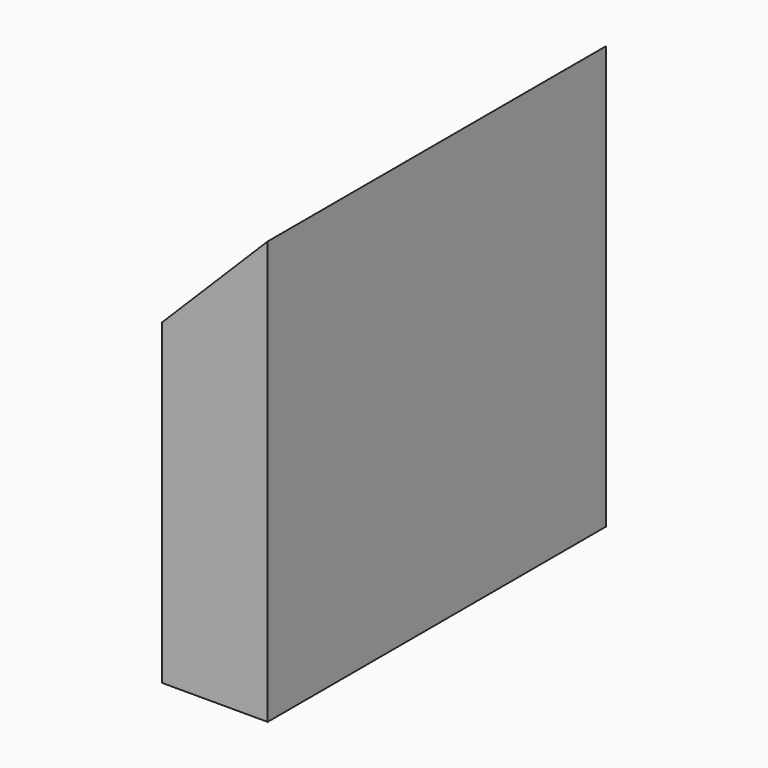
from build123d import *

# Parameters (mm, degrees)
F0_W     = 50.8
F0_H     = 50.8
F1_DEPTH = 12.7
F3_DEPTH = 50.8


with BuildPart() as f1:
    # F0 (on Right) → F1 (new body)
    with BuildSketch(Plane.YZ):
        with Locations((25.4, 25.4)):
            Rectangle(F0_W, F0_H)
    extrude(amount=F1_DEPTH)

    # F2 (on face) → F3 (cut)
    with BuildSketch(Plane.XZ):
        Polygon((0, 50.8), (0, 38.1), (12.7, 50.8), align=None)
    extrude(amount=-F3_DEPTH, mode=Mode.SUBTRACT)


solid = f1.part
